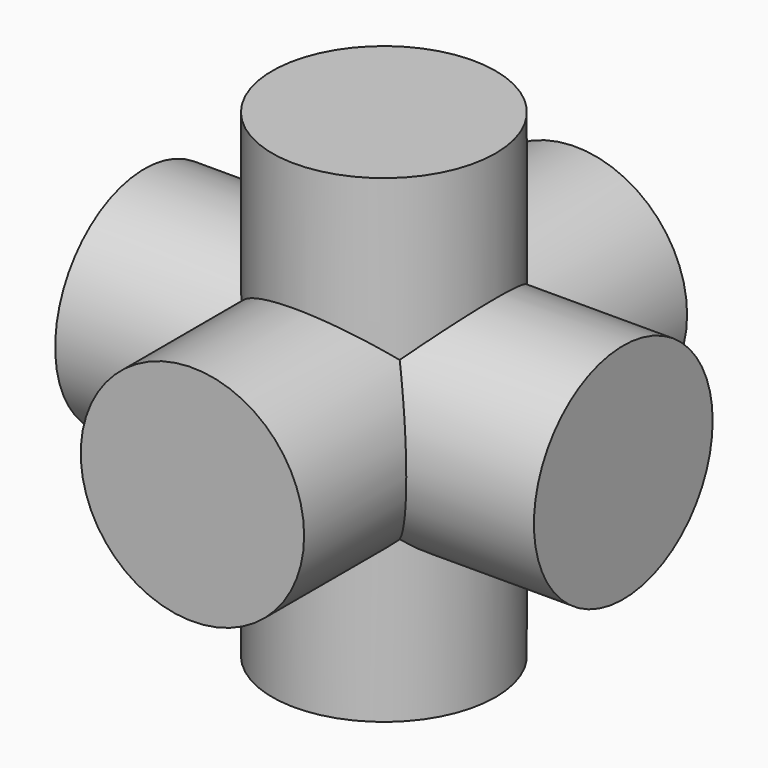
from build123d import *

# Parameters (mm, degrees)
F0_R     = 4.445
F1_DEPTH = 9.525
F2_R     = 4.445
F3_DEPTH = 9.525
F4_R     = 4.445
F5_DEPTH = 9.525


with BuildPart() as f1:
    # F0 (on Front) → F1 (new body, symmetric)
    with BuildSketch(Plane.XZ):
        Circle(F0_R)
    extrude(amount=F1_DEPTH, both=True)

    # F2 (on Right) → F3 (join, symmetric)
    with BuildSketch(Plane.YZ):
        Circle(F2_R)
    extrude(amount=F3_DEPTH, both=True)

    # F4 (on Top) → F5 (join, symmetric)
    with BuildSketch(Plane.XY):
        Circle(F4_R)
    extrude(amount=F5_DEPTH, both=True)


solid = f1.part
